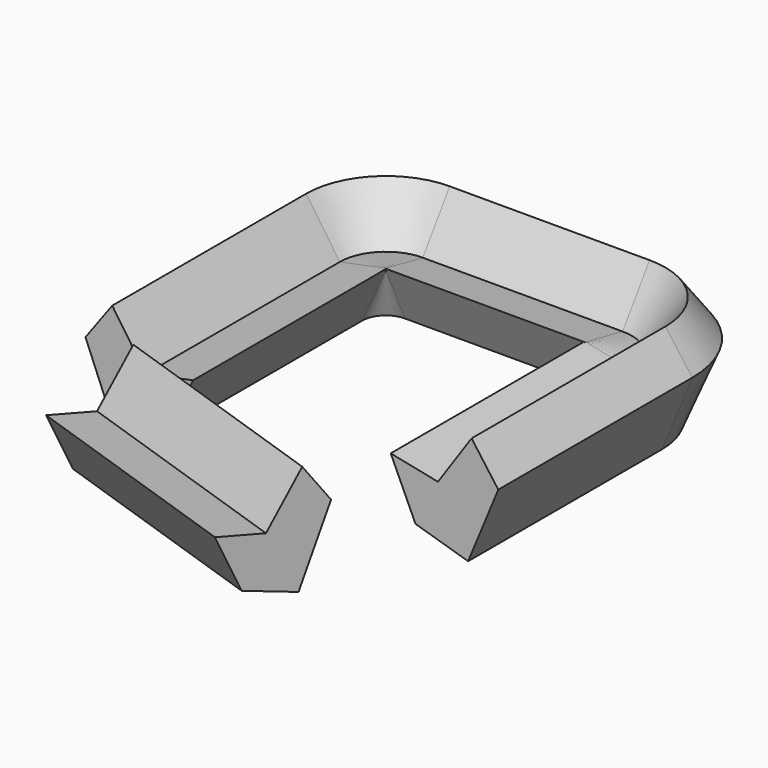
from build123d import *


with BuildPart() as body:
    # AdditivePipe: sweep along a path in Sketch002
    with BuildLine(Plane.XY) as additivepipe_path:
        Line((0, 0), (0, 31.97183))
        ThreePointArc((0, 31.97183), (2.410946, 37.79237), (8.231486, 40.203316))
        Line((8.231486, 40.203316), (34.58542, 40.203316))
        ThreePointArc((34.58542, 40.203316), (40.40596, 37.79237), (42.816906, 31.97183))
        Line((42.816906, 31.97183), (42.816906, 0))
    # Clone2D (on Vertex1 of Sketch002) → AdditivePipe (sweep)
    with BuildSketch(Plane.XZ):
        Polygon((-5.817201, 4.403553), (-1.836139, -5.207869), (5.102284, -3.132028), (8.372442, 4.005447), (2.144924, 2.72582), (-2.291117, 9.209265), align=None)
    sweep(path=additivepipe_path.line)


with BuildPart() as body001:
    # AdditivePipe001: sweep along a path in Sketch003
    with BuildLine(Plane.XY) as additivepipe001_path:
        Line((4.111433, -7.614213), (34.700703, -17.999458))
    # Clone2D001 (on Vertex1 of Sketch003) → AdditivePipe001 (sweep)
    with BuildSketch(Plane(origin=(4.111433, -7.614213, 0), x_dir=(-0.321484, -0.946915, 0), z_dir=(-0.946915, 0.321484, 0))):
        Polygon((-5.817201, 4.403553), (-1.836139, -5.207869), (5.102284, -3.132028), (8.372442, 4.005447), (2.144924, 2.72582), (-2.291117, 9.209265), align=None)
    sweep(path=additivepipe001_path.line)


solid = Compound([body.part, body001.part])
